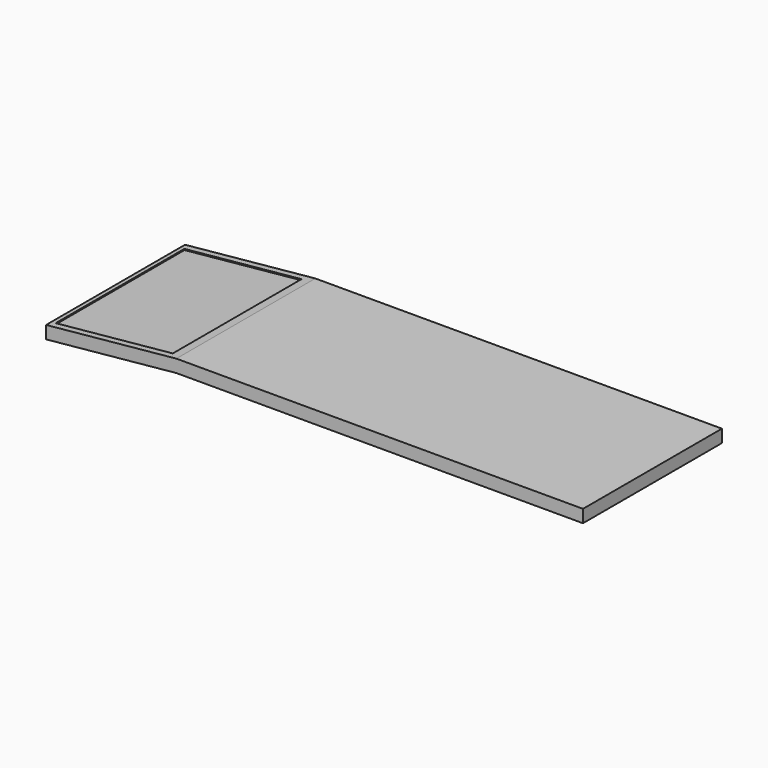
from build123d import *

# Parameters (mm, degrees)
F0_W     = 4876.8
F0_H     = 2082.8
F1_DEPTH = 152.4
F2_T     = -6.35
F4_DEPTH = 1041.4
F5_W     = 1411.3302230835
F5_H     = 1929.2058944702
F6_DEPTH = 12.7


with BuildPart() as f1:
    # F0 (on Top) → F1 (new body)
    with BuildSketch(Plane.XY):
        Rectangle(F0_W, F0_H)
    extrude(amount=F1_DEPTH)

    # F2
    f2_openings = [f1.faces().sort_by_distance(p)[0] for p in [
        (0, 0, 0),
    ]]
    offset(amount=F2_T, openings=f2_openings)

    # F3 (on Front) → F4 (join, symmetric)
    with BuildSketch(Plane.XZ):
        Polygon((-2438.4, 0), (-2438.4, 152.4), (-4001.0118484497, 0), (-4001.0118484497, -152.4), align=None)
    extrude(amount=F4_DEPTH, both=True)

    # F5 (on face) → F6 (cut)
    with BuildSketch(Plane(origin=(-37.6986760774, 0, 386.5380440247), x_dir=(0.9952777072, 0, 0.097068458), z_dir=(-0.097068458, 0, 0.9952777072))):
        with Locations((-3222.5890159607, 0)):
            Rectangle(F5_W, F5_H)
    extrude(amount=-F6_DEPTH, mode=Mode.SUBTRACT)


solid = f1.part
